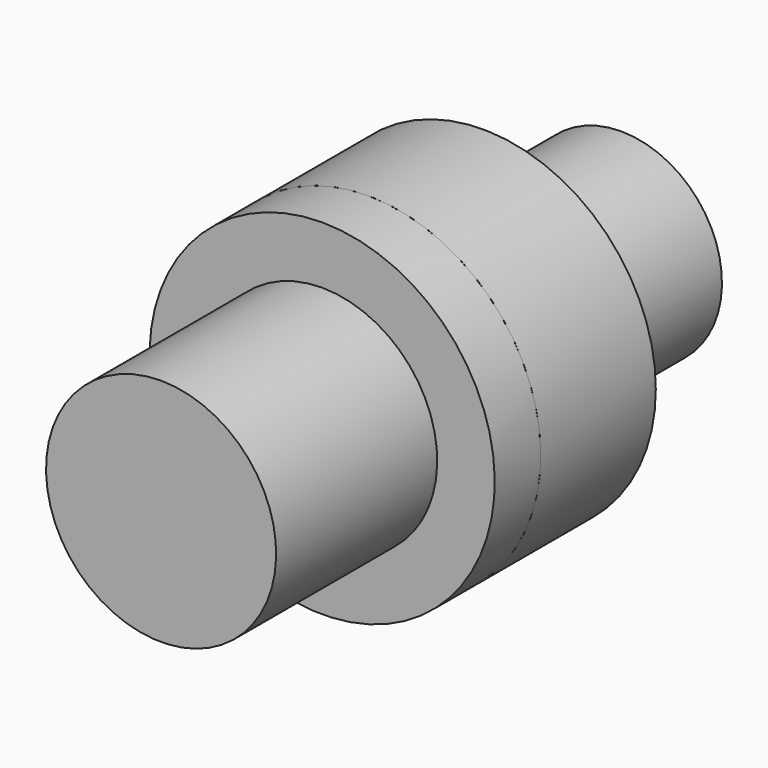
from build123d import *

# Parameters (mm, degrees)
F2_W = 30
F2_H = 50


with BuildPart() as f1:
    # F0 (on Right) → F1 (revolve)
    with BuildSketch(Plane.YZ):
        Polygon((0, 40), (0, 0), (200, 0), (200, 35), (140, 35), (140, 30), (90, 30), (90, 60), (70, 60), (70, 40), align=None)
    revolve(axis=Axis((0, 100, 0), (0, -1, 0)))


with BuildPart() as f3:
    # F2 (on Top) → F3 (revolve)
    with BuildSketch(Plane.XY):
        with Locations((45, 115)):
            Rectangle(F2_W, F2_H)
    revolve(axis=Axis((0, 140, 0), (0, -1, 0)))


solid = Compound([f1.part, f3.part])
